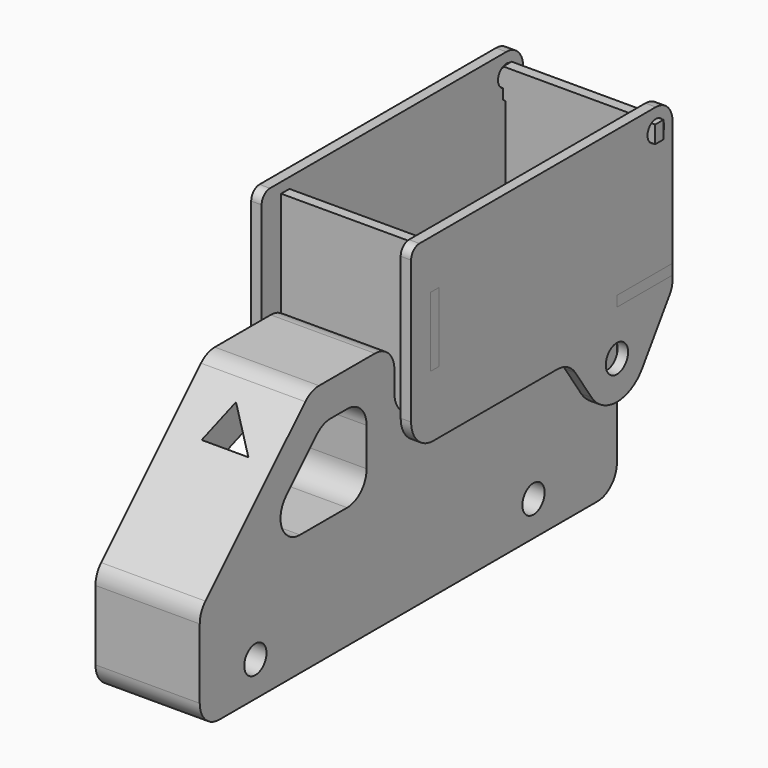
from build123d import *

# Parameters (mm, degrees)
F0_R      = 4
F1_DEPTH  = 15
F2_R      = 7
F4_DEPTH  = 10
F5_R      = 10
F6_R      = 4
F7_DEPTH  = 55.49347
F9_R      = 4
F9_W      = 3
F9_H      = 20
F9_R_2    = 3
F10_DEPTH = 3
F13_DEPTH = 3
F16_DEPTH = 3
F20_DEPTH = 1.5


with BuildPart() as f1:
    # F0 (on Right) → F1 (new body, symmetric)
    with BuildSketch(Plane.YZ):
        Polygon((0, 30), (0, 0), (150, 0), (150, 50), (70, 50), (70, 70), (40, 70), align=None)
        with Locations((20, 10)):
            Circle(F0_R, mode=Mode.SUBTRACT)
        with Locations((120, 10)):
            Circle(F0_R, mode=Mode.SUBTRACT)
        Polygon((19.1421356237, 35), (44.1421356237, 60), (60, 60), (60, 35), align=None, mode=Mode.SUBTRACT)
    extrude(amount=F1_DEPTH, both=True)

    # F2
    f2_edges = [f1.edges().sort_by_distance(p)[0] for p in [
        (0, 40, 70),
        (0, 70, 70),
        (0, 0, 30),
        (0, 0, 0),
        (0, 150, 0),
        (0, 60, 35),
        (0, 44.142136, 60),
        (0, 19.142136, 35),
        (0, 60, 60),
        (0, 70, 50),
    ]]
    fillet(f2_edges, radius=F2_R)

    # F3 (on face) → F4 (cut, through all)
    with BuildSketch(Plane(origin=(0, -15, 15), x_dir=(1, 0, 0), z_dir=(0, -0.7071067812, 0.7071067812))):
        Polygon((7.9343309626, 58.4344230592), (-1.7800361384, 69.3023130298), (-5.5058463477, 58.4344230592), align=None)
    extrude(amount=-F4_DEPTH, mode=Mode.SUBTRACT)

    # F5
    f5_edges = [f1.edges().sort_by_distance(p)[0] for p in [
        (0, 150, 50),
    ]]
    fillet(f5_edges, radius=F5_R)

    # F6 (on Right) → F7 (cut, symmetric)
    with BuildSketch(Plane.YZ):
        with Locations((140, 40)):
            Circle(F6_R)
    extrude(amount=F7_DEPTH, both=True, mode=Mode.SUBTRACT)


with BuildPart() as f10:
    # F9 (on offset) → F10 (new body)
    with BuildSketch(Plane.YZ.offset(20)):
        with BuildLine():
            Line((154, 98), (69, 98))
            ThreePointArc((69, 98), (66.8786796564, 97.1213203436), (66, 95))
            Line((66, 95), (66, 54))
            ThreePointArc((66, 54), (68.3431457505, 48.3431457505), (74, 46))
            Line((74, 46), (118.4380730854, 46))
            ThreePointArc((118.4380730854, 46), (122.1958728955, 45.062502431), (125.0729406588, 42.4697351469))
            Line((125.0729406588, 42.4697351469), (130.8770570865, 33.8541141731))
            ThreePointArc((130.8770570865, 33.8541141731), (140, 29), (149.1229429135, 33.8541141731))
            Line((149.1229429135, 33.8541141731), (158.9761506801, 48.4801997367))
            ThreePointArc((158.9761506801, 48.4801997367), (159.7383318168, 50.0799178721), (160, 51.8325010969))
            Line((160, 51.8325010969), (160, 53))
            Line((160, 53), (140, 53))
            Line((140, 53), (140, 56))
            Line((140, 56), (160, 56))
            Line((160, 56), (160, 92))
            ThreePointArc((160, 92), (158.2426406871, 96.2426406871), (154, 98))
        make_face()
        with Locations((140, 40)):
            Circle(F9_R, mode=Mode.SUBTRACT)
        with Locations((74.5, 74)):
            Rectangle(F9_W, F9_H, mode=Mode.SUBTRACT)
        with Locations((154, 92)):
            Circle(F9_R_2, mode=Mode.SUBTRACT)
    extrude(amount=F10_DEPTH)


with BuildPart() as f11_1:
    # F11: instance of F10
    add(f10.part.mirror(Plane.YZ))


with BuildPart() as f13:
    # F12 (on face) → F13 (new body)
    with BuildSketch(Plane.XY.offset(53)):
        Polygon((8, 76), (20, 76), (20, 140), (23, 140), (23, 160), (20, 160), (0, 160), (0, 76), (0, 73), (8, 73), align=None)
    extrude(amount=F13_DEPTH)

    # F14: F13 across face


with BuildPart() as f13_1:
    add(f13.part)
    add(f13.part.mirror(Plane(origin=(0, 116.5, 54.5), x_dir=(0, -1, 0), z_dir=(-1, 0, 0))))


with BuildPart() as f16:
    # F15 (on face) → F16 (new body)
    with BuildSketch(Plane.XZ.offset(-76)):
        Polygon((20, 50), (20, 64), (23, 64), (23, 84), (20, 84), (20, 95), (0, 95), (0, 56), (8, 56), (8, 53), (0, 53), (0, 50), align=None)
    extrude(amount=F16_DEPTH)

    # F17: F16 across face


with BuildPart() as f16_1:
    add(f16.part)
    add(f16.part.mirror(Plane(origin=(0, 74.5, 75.5), x_dir=(0, -1, 0), z_dir=(-1, 0, 0))))


with BuildPart() as f20:
    # F19 (on plane+point) → F20 (new body, symmetric)
    with BuildSketch(Plane.XZ.offset(-154)):
        Polygon((19.7, 95), (0, 95), (0, 57.5), (19, 57.5), (19, 86.5), (19.7, 86.5), (19.7, 89.5), (24, 89.5), (24, 94.5), (19.7, 94.5), align=None)
    extrude(amount=F20_DEPTH, both=True)

    # F21: F20 across face


with BuildPart() as f20_1:
    add(f20.part)
    add(f20.part.mirror(Plane(origin=(0, 154, 76.25), x_dir=(0, -1, 0), z_dir=(-1, 0, 0))))


solid = Compound([f1.part, f10.part, f11_1.part, f13_1.part, f16_1.part, f20_1.part])
